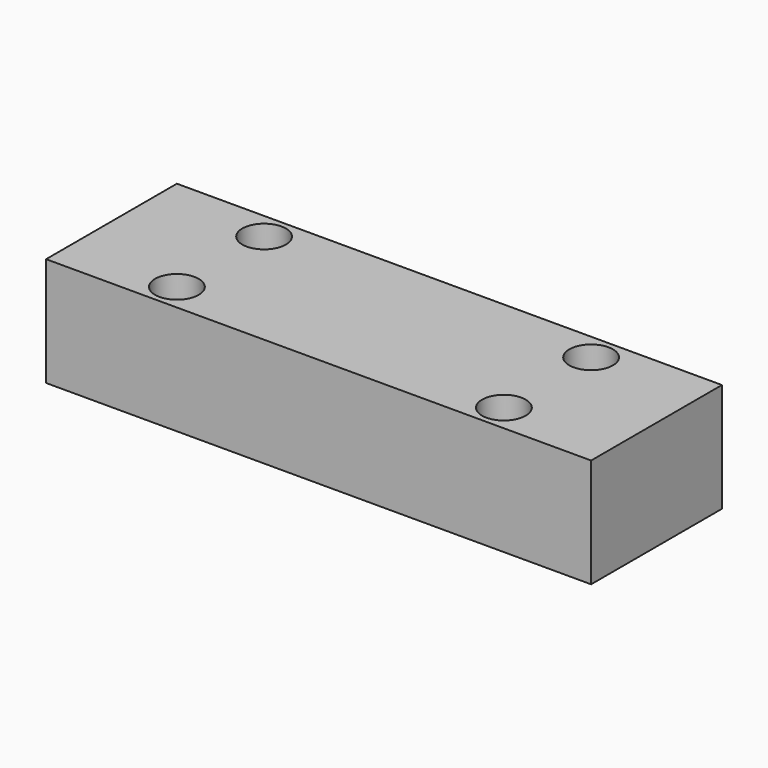
from build123d import *

# Parameters (mm, degrees)
F0_W           = 127
F0_H           = 38.1
F1_DEPTH       = 25.4
F3_D           = 6.35
F3_CBORE_D     = 10.16
F3_CBORE_DEPTH = 6.35


with BuildPart() as f1:
    # F0 (on Top) → F1 (new body)
    with BuildSketch(Plane.XY):
        Rectangle(F0_W, F0_H)
    extrude(amount=F1_DEPTH)

    # F3 (through all)
    with Locations(Plane.XY.offset(25.4)):
        with Locations((-38.1, 12.7), (-38.1, -12.7), (38.1, -12.7), (38.1, 12.7)):
            CounterBoreHole(F3_D / 2, F3_CBORE_D / 2, F3_CBORE_DEPTH)


solid = f1.part
